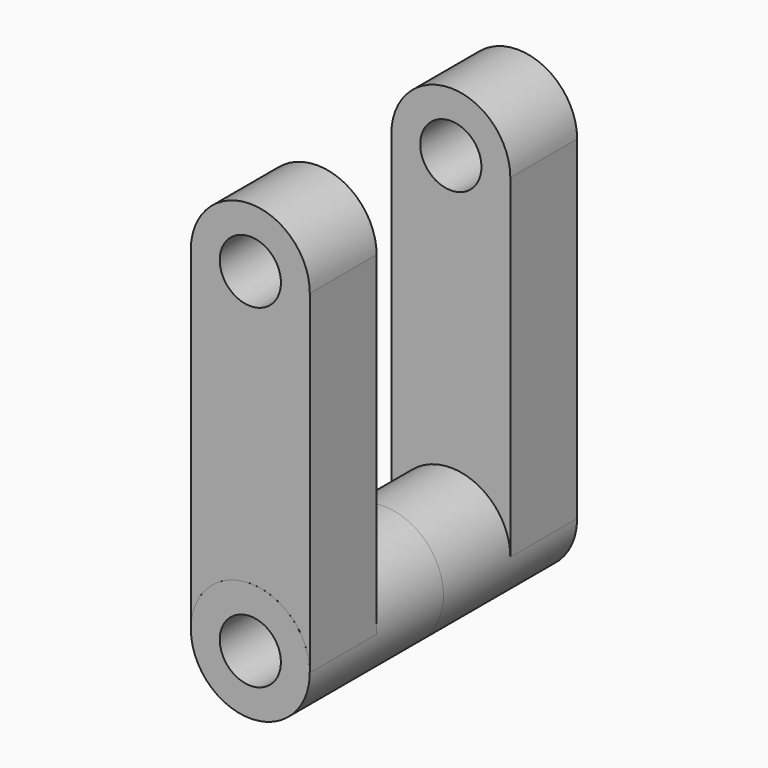
from build123d import *

# Parameters (mm, degrees)
F0_R     = 4.652524
F1_DEPTH = 12.7
F0_R_2   = 4.6482
F2_DEPTH = 25.4


with BuildPart() as f1:
    # F0 (on Front) → F1 (new body)
    with BuildSketch(Plane.XZ):
        with BuildLine():
            Line((-9.037275, 17.904323), (-9.037275, -32.895677))
            ThreePointArc((-9.037275, -32.895677), (0.002563, -23.855839), (9.0424, -32.895677))
            Line((9.0424, -32.895677), (9.0424, 17.904323))
            ThreePointArc((9.0424, 17.904323), (0.002563, 26.944161), (-9.037275, 17.904323))
        make_face()
        with Locations((0.002563, 17.904323)):
            Circle(F0_R, mode=Mode.SUBTRACT)
    extrude(amount=-F1_DEPTH)


with BuildPart() as f2:
    # F0 (on Front) → F2 (new body)
    with BuildSketch(Plane.XZ):
        with BuildLine():
            ThreePointArc((9.0424, -32.895677), (0.002563, -23.855839), (-9.037275, -32.895677))
            ThreePointArc((-9.037275, -32.895677), (0.002563, -41.935514), (9.0424, -32.895677))
        make_face()
        with Locations((0.002563, -32.895677)):
            Circle(F0_R_2, mode=Mode.SUBTRACT)
    extrude(amount=-F2_DEPTH)


with BuildPart() as f3_1:
    # F3: instance of F1
    add(f1.part.mirror(Plane(origin=(0.002563, 25.4, -32.895677), x_dir=(1, 0, 0), z_dir=(0, 1, 0))))


with BuildPart() as f3_2:
    # F3: instance of F2
    add(f2.part.mirror(Plane(origin=(0.002563, 25.4, -32.895677), x_dir=(1, 0, 0), z_dir=(0, 1, 0))))


solid = Compound([f1.part, f2.part, f3_1.part, f3_2.part])
